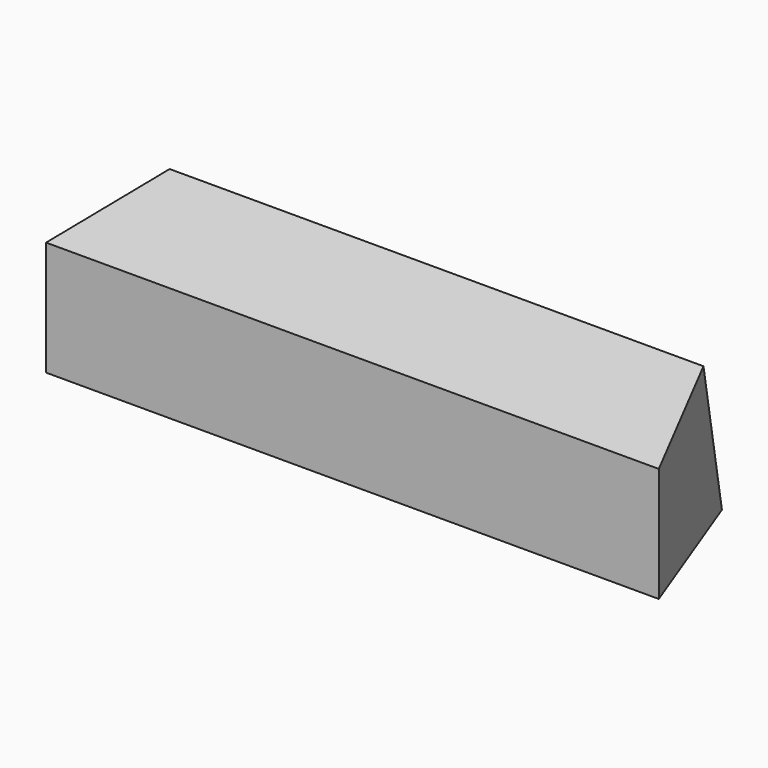
from build123d import *

# Parameters (mm, degrees)
F1_DEPTH = 270
F4_DEPTH = 500


with BuildPart() as f1:
    # F0 (on Top) → F1 (new body)
    with BuildSketch(Plane.XY):
        Polygon((-405, 240), (-495, 0), (495, 0), (405, 240), align=None)
    extrude(amount=F1_DEPTH)

    # F3 (on Right) → F4 (intersect, symmetric)
    with BuildSketch(Plane.YZ):
        Polygon((169.9149557887, 241.2930764712), (0, 185), (0, 0), (240, 0), align=None)
    extrude(amount=F4_DEPTH, both=True, mode=Mode.INTERSECT)


solid = f1.part
